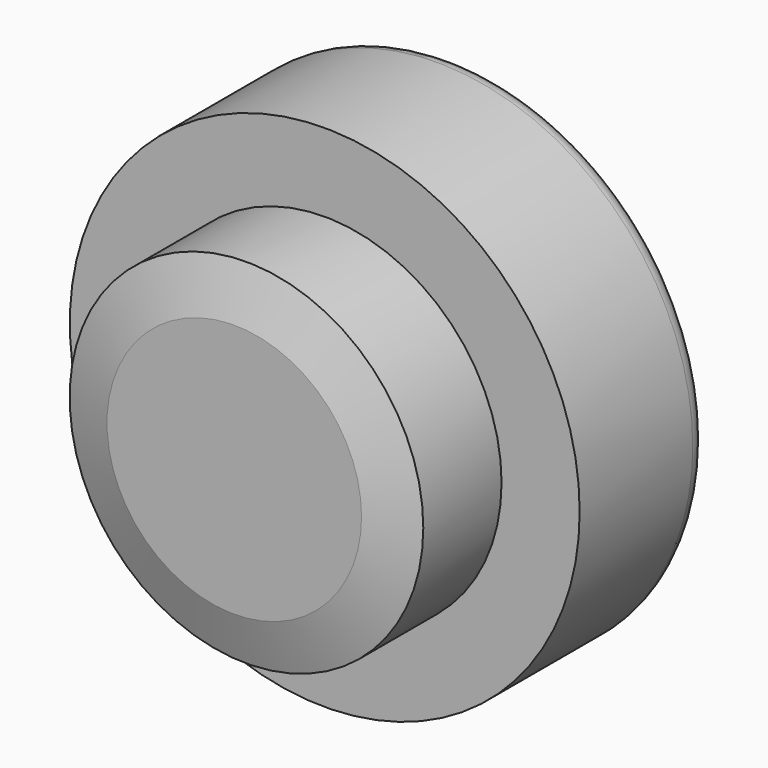
from build123d import *

# Parameters (mm, degrees)
F2_R     = 8
F3_SIZE2 = 13
F3_SIZE  = 4


with BuildPart() as f1:
    # F0 (on Top) → F1 (revolve)
    with BuildSketch(Plane.XY):
        with BuildLine():
            Line((-14.3607687205, 22), (-14.3607687205, -20))
            Line((-14.3607687205, -20), (32.0355594158, -20))
            Line((32.0355594158, -20), (32.0355594158, 9.6684019268))
            Line((32.0355594158, 9.6684019268), (52.5324852616, 9.6684019268))
            Line((52.5324852616, 9.6684019268), (52.5324852616, 46.7559769824))
            ThreePointArc((52.5324852616, 46.7559769824), (51.0680191675, 50.2915108883), (47.5324852616, 51.7559769824))
            Line((47.5324852616, 51.7559769824), (16.6392312795, 51.7559769824))
            Line((16.6392312795, 51.7559769824), (16.6392312795, 22))
            Line((16.6392312795, 22), (-14.3607687205, 22))
        make_face()
    revolve(axis=Axis((-14.3607687205, 1, 0), (0, -1, 0)))

    # F2
    f2_edges = [f1.edges().sort_by_distance(p)[0] for p in [
        (-45.360769, 51.755977, 0),
    ]]
    fillet(f2_edges, radius=F2_R)

    # F3
    f3_edges = [f1.edges().sort_by_distance(p)[0] for p in [
        (-60.757097, -20, 0),
    ]]
    chamfer(f3_edges, length=F3_SIZE, length2=F3_SIZE2)


solid = f1.part
